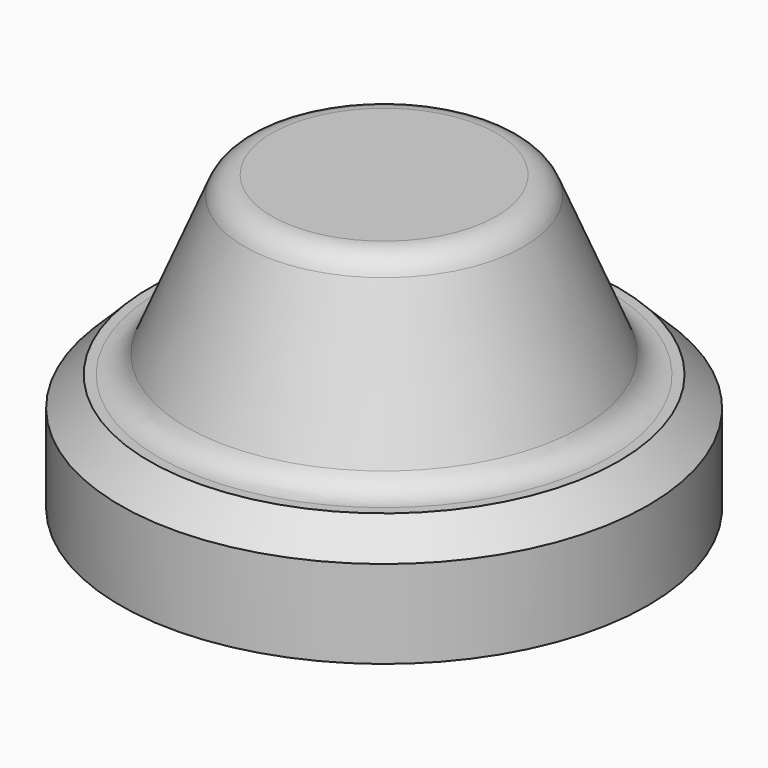
from build123d import *

# Parameters (mm, degrees)
F2_SIZE = 5


with BuildPart() as f1:
    # F0 (on Front) → F1 (revolve)
    with BuildSketch(Plane.XZ):
        with BuildLine():
            Line((0, 50), (0, 0))
            Line((0, 0), (45, 0))
            Line((45, 0), (45, 20))
            Line((45, 20), (38.333333, 20))
            ThreePointArc((38.333333, 20), (35.559832, 20.839749), (33.717949, 23.076923))
            Line((33.717949, 23.076923), (23.782051, 46.923077))
            ThreePointArc((23.782051, 46.923077), (21.940168, 49.160251), (19.166667, 50))
            Line((19.166667, 50), (0, 50))
        make_face()
    revolve(axis=Axis((0, 0, 22.974283), (0, 0, -1)))

    # F2
    f2_edges = [f1.edges().sort_by_distance(p)[0] for p in [
        (-45, 0, 20),
        (-33.717949, 0, 23.076923),
        (-23.782051, 0, 46.923077),
        (-19.166667, 0, 50),
    ]]
    chamfer(f2_edges, length=F2_SIZE)


solid = f1.part
